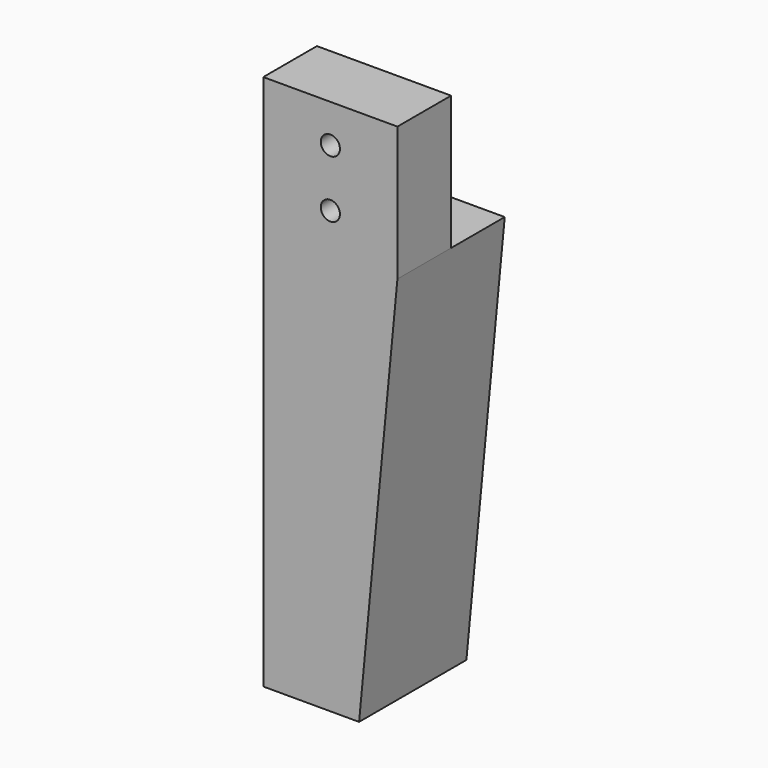
from build123d import *

# Parameters (mm, degrees)
F0_R     = 6.35
F1_DEPTH = 88.9
F2_W     = 44.45
F2_H     = 88.9
F3_DEPTH = 101.6


with BuildPart() as f1:
    # F0 (on Front) → F1 (new body)
    with BuildSketch(Plane.XZ):
        Polygon((44.45, 88.9), (44.45, 177.8), (-44.45, 177.8), (-44.45, -177.8), (19.05, -177.8), align=None)
        with Locations((0, 114.3)):
            Circle(F0_R, mode=Mode.SUBTRACT)
        with Locations((0, 152.4)):
            Circle(F0_R, mode=Mode.SUBTRACT)
    extrude(amount=F1_DEPTH)

    # F2 (on face) → F3 (cut)
    with BuildSketch(Plane.YZ.offset(44.45)):
        with Locations((-22.225, 133.35)):
            Rectangle(F2_W, F2_H)
    extrude(amount=-F3_DEPTH, mode=Mode.SUBTRACT)


solid = f1.part
